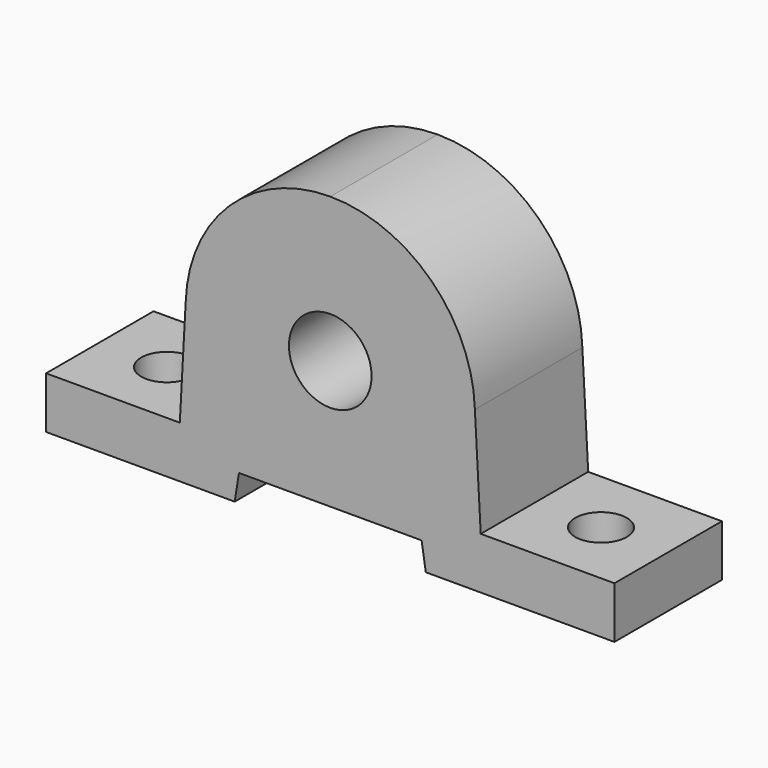
from build123d import *

# Parameters (mm, degrees)
PAD309_DEPTH      = 6.5
PAD309_DEPTH_BACK = 6.5
SKETCH722_R       = 2.5
POCKET253_DEPTH   = 100


with BuildPart() as part:
    # Sketch721 → Pad309 (new body, two sides)
    with BuildSketch(Plane.XZ) as pad309_sk:
        with BuildLine():
            ThreePointArc((13.993934, 15.412077), (9.752716, 25.04413), (0, 29))
            Line((0, 29), (0, 19))
            ThreePointArc((0, 11), (4, 15), (0, 19))
            Line((0, 11), (0, 2.582699))
            Line((8.836548, 2.582699), (0, 2.582699))
            Line((9.246055, 0), (8.836548, 2.582699))
            Line((27.5, 0), (9.246055, 0))
            Line((27.5, 5), (27.5, 0))
            Line((14.559493, 5), (27.5, 5))
            Line((13.993934, 15.412077), (14.559493, 5))
        make_face()
    pad309 = extrude(amount=PAD309_DEPTH) + extrude(pad309_sk.sketch, amount=-PAD309_DEPTH_BACK)

    # Mirrored001: Pad309 across Sketch721 V_Axis
    add(pad309.mirror(Plane(origin=(0, 0, 0), x_dir=(0, -1, 0), z_dir=(1, 0, 0))))

    # Sketch722 (on Face4 of Mirrored001) → Pocket253 (cut)
    with BuildSketch(Plane(origin=(0, 0, 5), x_dir=(-1, 0, 0), z_dir=(0, 0, 1))):
        with Locations((21, 0)):
            Circle(SKETCH722_R)
        with Locations((-21, 0)):
            Circle(SKETCH722_R)
    extrude(amount=-POCKET253_DEPTH, mode=Mode.SUBTRACT)


solid = part.part
